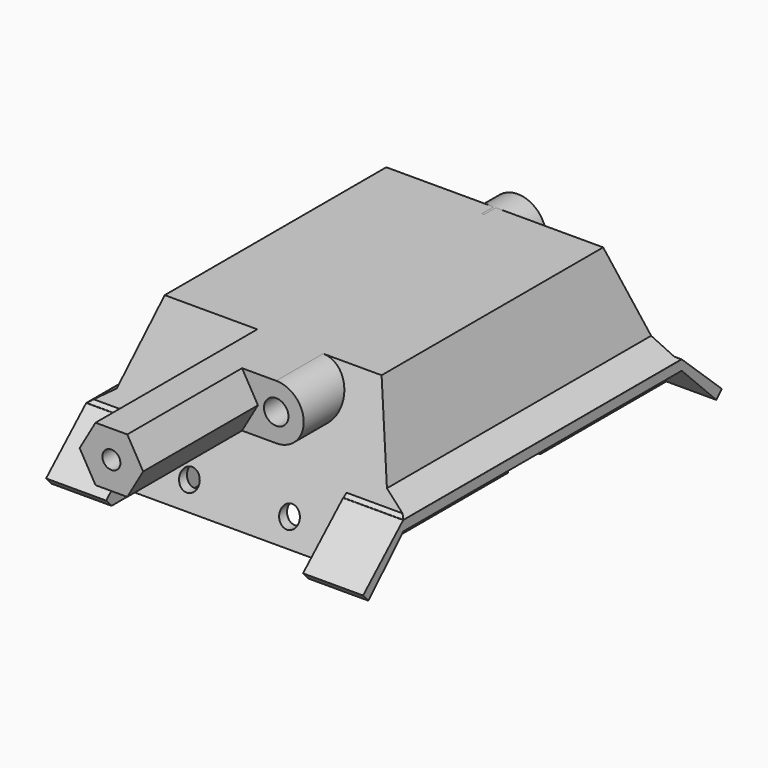
from build123d import *

# Parameters (mm, degrees)
SKETCH_W             = 65
SKETCH_H             = 83
PAD_DEPTH            = 45
SKETCH001_W          = 83
SKETCH001_H          = 32
PAD001_DEPTH         = 15
PAD002_DEPTH         = 15
POCKET_DEPTH         = 403.6691065481
POCKET001_DEPTH      = 500
POCKET001_DEPTH_BACK = 100
PAD003_DEPTH         = 16
SKETCH007_W          = 3
SKETCH007_H          = 135.5960614908
PAD004_DEPTH         = 16
POCKET002_DEPTH      = 414.7315387876
POCKET003_DEPTH      = 5
SKETCH008_W          = 54
SKETCH008_H          = 76
POCKET004_DEPTH      = 35
PAD005_DEPTH         = 65
CHAMFER_SIZE         = 5.3
CHAMFER001_SIZE      = 5.3
CHAMFER002_SIZE      = 0.8999
CHAMFER003_SIZE      = 0.899
CHAMFER004_SIZE      = 0.8999
CHAMFER005_SIZE      = 0.8999
POCKET005_DEPTH      = 80.0010001
POCKET006_DEPTH      = 80.0010001
POCKET007_DEPTH      = 10000
POCKET007_DEPTH_BACK = 100
POCKET008_DEPTH      = 95.001
SKETCH012_W          = 5.5
SKETCH012_H          = 12
POCKET009_DEPTH      = 5
POCKET010_DEPTH      = 20
POCKET010_DEPTH_BACK = 20
POCKET011_DEPTH      = 6
SKETCH014_R          = 8.518625
PAD006_DEPTH         = 13
SKETCH015_R          = 3.5
POCKET012_DEPTH      = 15
SKETCH016_R          = 0.75
POCKET013_DEPTH      = 40
SKETCH018_W          = 5.5
SKETCH018_H          = 12
POCKET014_DEPTH      = 5
POCKET014_FACE131_W  = 12
POCKET014_FACE131_H  = 5.5
PAD007_DEPTH         = 5
POCKET015_DEPTH      = 38.88
POCKET015_DEPTH_BACK = 37
SKETCH020_R          = 3
POCKET016_DEPTH      = 173.1015589479
SKETCH021_R          = 2.7
POCKET017_DEPTH      = 70
SKETCH022_R          = 3.6
PAD008_DEPTH         = 25
SKETCH023_R          = 3.660532
POCKET018_DEPTH      = 25
SKETCH024_W          = 7
SKETCH024_H          = 6.387993
POCKET019_DEPTH      = 40


with BuildPart() as part:
    # Sketch → Pad (new body)
    with BuildSketch(Plane.XY):
        Rectangle(SKETCH_W, SKETCH_H)
    extrude(amount=PAD_DEPTH)

    # Sketch001 (on Face4 of Pad) → Pad001 (join)
    with BuildSketch(Plane(origin=(-32.5, 0, 0), x_dir=(0, -1, 0), z_dir=(-1, 0, 0))):
        with Locations((0, 29)):
            Rectangle(SKETCH001_W, SKETCH001_H)
    pad001 = extrude(amount=PAD001_DEPTH)

    # Mirrored: Pad001 across YZ
    add(pad001.mirror(Plane.YZ))

    # Sketch002 (on Face4 of Mirrored) → Pad002 (join)
    with BuildSketch(Plane.XZ.offset(41.5)):
        Polygon((-47.5, 45), (47.5, 45), (47.5, 13), (32.5, 13), (32.5, 0), (-32.5, 0), (-32.5, 13), (-47.5, 13), align=None)
    pad002 = extrude(amount=PAD002_DEPTH)

    # Mirrored001: Pad002 across XZ
    add(pad002.mirror(Plane.XZ))

    # Sketch003 (on Face13 of Mirrored001) → Pocket (cut, through all)
    with BuildSketch(Plane(origin=(-47.5, 0, 0), x_dir=(0, -1, 0), z_dir=(-1, 0, 0))):
        Polygon((41.5, 45), (56.5, 0), (69.973511, 50.863071), align=None)
    pocket = extrude(amount=-POCKET_DEPTH, mode=Mode.SUBTRACT)

    # Mirrored002: Pocket across XZ
    add(pocket.mirror(Plane.XZ), mode=Mode.SUBTRACT)

    # Sketch004 → Pocket001 (cut, two sides)
    with BuildSketch(Plane.XZ) as pocket001_sk:
        Polygon((-32.5, 45), (-47.5, 0), (-68.972275, 31.059837), (-58.790833, 51.045628), align=None)
    pocket001 = extrude(amount=-POCKET001_DEPTH, mode=Mode.SUBTRACT) + extrude(pocket001_sk.sketch, amount=POCKET001_DEPTH_BACK, mode=Mode.SUBTRACT)

    # Mirrored003: Pocket001 across YZ
    add(pocket001.mirror(Plane.YZ), mode=Mode.SUBTRACT)

    # Sketch006 (on DatumPlane) → Pad003 (join)
    with BuildSketch(Plane(origin=(-47.5, 0, 4), x_dir=(0, -1, 0), z_dir=(-1, 0, 0))):
        Polygon((-68.401131891, -2.9951612268), (-52.1666666667, 12), (52.1666666667, 12), (67.1949295998, -1.7895363668), (65.1666666666, -4), (52.1666666667, 9), (-52.1666666667, 9), (-66.3655953138, -5.1989286472), align=None)
    pad003 = extrude(amount=-PAD003_DEPTH)

    # Sketch007 (on Face8 of Pad003) → Pad004 (join)
    with BuildSketch(Plane(origin=(0, 0, 0), x_dir=(1, 0, 0), z_dir=(0, 0, -1))):
        with Locations((-31, -0.6031011456)):
            Rectangle(SKETCH007_W, SKETCH007_H)
    pad004 = extrude(amount=-PAD004_DEPTH)

    # Pad004 Face41 → Pocket002 (cut, through all)
    with BuildSketch(Plane(origin=(-32.5, 62.9896434829, 11.0016129244), x_dir=(0, 1, 0), z_dir=(-1, 0, 0))):
        Polygon((5.4114884081, -4.9983870756), (5.4114884081, 9.9967741512), (-10.8229768162, -4.9983870756), align=None)
    pocket002 = extrude(amount=-POCKET002_DEPTH, mode=Mode.SUBTRACT)

    # Pocket002 Face27 → Pocket003 (cut)
    with BuildSketch(Plane(origin=(-32.5, -62.1855086221, 11.4034878777), x_dir=(0, 1, 0), z_dir=(-1, 0, 0))):
        Polygon((10.0188419554, -4.5965121223), (-5.0094209777, 9.1930242445), (-5.0094209777, -4.5965121223), align=None)
    pocket003 = extrude(amount=-POCKET003_DEPTH, mode=Mode.SUBTRACT)

    # Mirrored004: Pad003 across YZ
    add(pad003.mirror(Plane.YZ))

    # Mirrored005: Pad004 across YZ
    add(pad004.mirror(Plane.YZ))

    # Mirrored006: Pocket002 across YZ
    add(pocket002.mirror(Plane.YZ), mode=Mode.SUBTRACT)

    # Mirrored007: Pocket003 across YZ
    add(pocket003.mirror(Plane.YZ), mode=Mode.SUBTRACT)

    # Sketch008 (on Face8 of Mirrored007) → Pocket004 (cut)
    with BuildSketch(Plane(origin=(0, 0, 0), x_dir=(1, 0, 0), z_dir=(0, 0, -1))):
        with Locations((0, -0.8994410524)):
            Rectangle(SKETCH008_W, SKETCH008_H)
    extrude(amount=-POCKET004_DEPTH, mode=Mode.SUBTRACT)

    # Sketch009 (on Face24 of Pocket004) → Pad005 (join)
    with BuildSketch(Plane(origin=(0, -37.1005589476, 0), x_dir=(-1, 0, 0), z_dir=(0, 1, 0))):
        Polygon((-4.7576784019, 45), (-9.5153568039, 36.7594592818), (-4.7576784019, 28.5189185635), (4.7576784019, 28.5189185635), (9.5153568039, 36.7594592818), (4.7576784019, 45), align=None)
    extrude(amount=-PAD005_DEPTH)

    # Chamfer
    chamfer_edges = [part.edges().sort_by_distance(p)[0] for p in [
        (42.166667, 0, 16),
    ]]
    chamfer(chamfer_edges, length=CHAMFER_SIZE)

    # Chamfer001
    chamfer001_edges = [part.edges().sort_by_distance(p)[0] for p in [
        (-42.166667, 0, 16),
    ]]
    chamfer(chamfer001_edges, length=CHAMFER001_SIZE)

    # Chamfer002
    chamfer002_edges = [part.edges().sort_by_distance(p)[0] for p in [
        (-44.816667, -51.166667, 16),
        (-37.333333, -51.166667, 16),
        (-32, -51.166667, 16),
        (-30.5, -51.166667, 16),
    ]]
    chamfer(chamfer002_edges, length=CHAMFER002_SIZE)

    # Chamfer003
    chamfer003_edges = [part.edges().sort_by_distance(p)[0] for p in [
        (30.5, -51.166667, 16),
        (32, -51.166667, 16),
        (37.333333, -51.166667, 16),
        (44.816667, -51.166667, 16),
    ]]
    chamfer(chamfer003_edges, length=CHAMFER003_SIZE)

    # Chamfer004
    chamfer004_edges = [part.edges().sort_by_distance(p)[0] for p in [
        (-30.5, 51.166667, 16),
        (-32, 51.166667, 16),
        (-37.333333, 51.166667, 16),
        (-44.816667, 51.166667, 16),
    ]]
    chamfer(chamfer004_edges, length=CHAMFER004_SIZE)

    # Chamfer005
    chamfer005_edges = [part.edges().sort_by_distance(p)[0] for p in [
        (44.816667, 51.166667, 16),
        (37.333333, 51.166667, 16),
        (32, 51.166667, 16),
        (30.5, 51.166667, 16),
    ]]
    chamfer(chamfer005_edges, length=CHAMFER005_SIZE)

    # Chamfer005 Face72 → Pocket005 (cut, through all)
    with BuildSketch(Plane(origin=(-32.5, 68.0917547069, 0.3349462577), x_dir=(0, 1, 0), z_dir=(-1, 0, 0))):
        Polygon((0.3093771841, 0.3349462577), (-0.6187543683, 0.3349462577), (0.3093771841, -0.6698925155), align=None)
    extrude(amount=-POCKET005_DEPTH, mode=Mode.SUBTRACT)

    # Pocket005 Face105 → Pocket006 (cut, through all)
    with BuildSketch(Plane(origin=(-32.5, -66.5188419554, 0.7368212111), x_dir=(0, 1, 0), z_dir=(-1, 0, 0))):
        Polygon((-0.6760876444, -1.4736424221), (1.3521752888, 0.7368212111), (-0.6760876444, 0.7368212111), align=None)
    extrude(amount=-POCKET006_DEPTH, mode=Mode.SUBTRACT)

    # Pocket006 Face73 → Pocket007 (cut, two sides)
    with BuildSketch(Plane(origin=(-31.5, 66.3350874397, -0.3996428824), x_dir=(0, -1, 0), z_dir=(1, 0, 0))) as pocket007_sk:
        Polygon((1.168420773, -0.3996428824), (-0.0305078741, 0.7992857648), (-1.1379128989, -0.3996428824), align=None)
    extrude(amount=-POCKET007_DEPTH, mode=Mode.SUBTRACT)
    extrude(pocket007_sk.sketch, amount=POCKET007_DEPTH_BACK, mode=Mode.SUBTRACT)

    # Sketch011 (on Face39 of Pocket007) → Pocket008 (cut, through all)
    with BuildSketch(Plane.YZ.offset(47.5)):
        Polygon((65.1666666667, 0), (68.818161, 3.6514943333), (70.985268, 1.013342), (68.517616, -0.789946), align=None)
    extrude(amount=-POCKET008_DEPTH, mode=Mode.SUBTRACT)

    # Sketch012 (on Face30 of Pocket008) → Pocket009 (cut)
    with BuildSketch(Plane(origin=(0, 0, 0), x_dir=(1, 0, 0), z_dir=(0, 0, -1))):
        with Locations((-29.75, -11.8994410524)):
            Rectangle(SKETCH012_W, SKETCH012_H)
    extrude(amount=-POCKET009_DEPTH, mode=Mode.SUBTRACT)

    # Sketch013 → Pocket010 (cut, two sides)
    with BuildSketch(Plane.YZ) as pocket010_sk:
        Polygon((-37.1005589476, 35), (-41.46302, 35), (-53.607724, 0), (-37.1005589476, 0), align=None)
    pocket010 = extrude(amount=-POCKET010_DEPTH, mode=Mode.SUBTRACT) + extrude(pocket010_sk.sketch, amount=POCKET010_DEPTH_BACK, mode=Mode.SUBTRACT)

    # Mirrored008: Pocket010 across XZ
    add(pocket010.mirror(Plane.XZ), mode=Mode.SUBTRACT)

    # Mirrored008 Face101 → Pocket011 (cut)
    with BuildSketch(Plane(origin=(0, 0.2373498677, 35), x_dir=(0, -1, 0), z_dir=(0, 0, -1))):
        Polygon((37.3379088153, 27), (-38.6620911847, 27), (-38.6620911847, 20), (-36.86320908, 20), (-36.86320908, -20), (-38.6620911847, -20), (-38.6620911847, -27), (37.3379088153, -27), (37.3379088153, -20), (37.3379088153, -8.4995325139), (37.3379088153, 8.4995325139), (37.3379088153, 20), align=None)
    extrude(amount=-POCKET011_DEPTH, mode=Mode.SUBTRACT)

    # Sketch014 (on Face128 of Pocket011) → Pad006 (join)
    with BuildSketch(Plane.XZ.offset(-37.1005589476)):
        with Locations((0, 36.4884)):
            Circle(SKETCH014_R)
    extrude(amount=-PAD006_DEPTH)

    # Sketch015 (on Face43 of Pad006) → Pocket012 (cut)
    with BuildSketch(Plane(origin=(0, 50.1005589476, 0), x_dir=(-1, 0, 0), z_dir=(0, 1, 0))):
        with Locations((0, 36.4884)):
            Circle(SKETCH015_R)
    extrude(amount=-POCKET012_DEPTH, mode=Mode.SUBTRACT)

    # Sketch016 (on Face67 of Pocket012) → Pocket013 (cut)
    with BuildSketch(Plane.XZ.offset(102.1005589476)):
        with Locations((0, 57.966855919)):
            Circle(SKETCH016_R)
    extrude(amount=-POCKET013_DEPTH, mode=Mode.SUBTRACT)

    # Sketch018 → Pocket014 (cut)
    with BuildSketch(Plane(origin=(0, 0, 0), x_dir=(1, 0, 0), z_dir=(0, 0, -1))):
        with Locations((29.75, -11.8994410524)):
            Rectangle(SKETCH018_W, SKETCH018_H)
    extrude(amount=-POCKET014_DEPTH, mode=Mode.SUBTRACT)

    # Pocket014 Face131 → Pad007 (add)
    with BuildSketch(Plane(origin=(-29.75, 11.8994410524, 5), x_dir=(0, -1, 0), z_dir=(0, 0, -1))):
        Rectangle(POCKET014_FACE131_W, POCKET014_FACE131_H)
    extrude(amount=PAD007_DEPTH)

    # Sketch019 → Pocket015 (cut, two sides)
    with BuildSketch(Plane.XZ) as pocket015_sk:
        Polygon((-29.5, 16.8537200999), (-36.0278850321, 23.381605132), (-32.1550867428, 35), (-27, 35), (-23.389076, 18.833223), align=None)
    pocket015 = extrude(amount=-POCKET015_DEPTH, mode=Mode.SUBTRACT) + extrude(pocket015_sk.sketch, amount=POCKET015_DEPTH_BACK, mode=Mode.SUBTRACT)

    # Mirrored009: Pocket015 across YZ
    add(pocket015.mirror(Plane.YZ), mode=Mode.SUBTRACT)

    # Sketch020 (on DatumPlane) → Pocket016 (cut, through all)
    with BuildSketch(Plane(origin=(0, 71, 34), x_dir=(1, 0, 0), z_dir=(0, 1, 0))):
        with Locations((-15, 26.885509115)):
            Circle(SKETCH020_R)
        with Locations((15, 26.885509115)):
            Circle(SKETCH020_R)
    extrude(amount=-POCKET016_DEPTH, mode=Mode.SUBTRACT)

    # Sketch021 (on Face71 of Pocket016) → Pocket017 (cut)
    with BuildSketch(Plane.XZ.offset(102.1005589476)):
        with Locations((0, 36.7594592818)):
            Circle(SKETCH021_R)
    extrude(amount=-POCKET017_DEPTH, mode=Mode.SUBTRACT)

    # Sketch022 (on DatumPlane) → Pad008 (join)
    with BuildSketch(Plane(origin=(15, -59.1005589476, 12), x_dir=(1, 0, 0), z_dir=(0, -1, 0))):
        with BuildLine():
            ThreePointArc((0, 16.5189185635), (8.2405407182, 24.7594592818), (0, 33))
            Line((0, 33), (-11.193171, 33))
            Line((-11.193171, 33), (-11.193171, 16.5189185635))
            Line((-11.193171, 16.5189185635), (0, 16.5189185635))
        make_face()
        with Locations((0, 24.7594592818)):
            Circle(SKETCH022_R, mode=Mode.SUBTRACT)
    extrude(amount=-PAD008_DEPTH)

    # Sketch023 (on Face73 of Pad008) → Pocket018 (cut)
    with BuildSketch(Plane.XZ.offset(59.1005589476)):
        with Locations((15, 36.7594592818)):
            Circle(SKETCH023_R)
    extrude(amount=-POCKET018_DEPTH, mode=Mode.SUBTRACT)

    # Sketch024 (on Face13 of Pocket018) → Pocket019 (cut)
    with BuildSketch(Plane(origin=(0, 0, 0), x_dir=(1, 0, 0), z_dir=(0, 0, -1))):
        with Locations((0, -38.2690235)):
            Rectangle(SKETCH024_W, SKETCH024_H)
    extrude(amount=-POCKET019_DEPTH, mode=Mode.SUBTRACT)


solid = part.part
